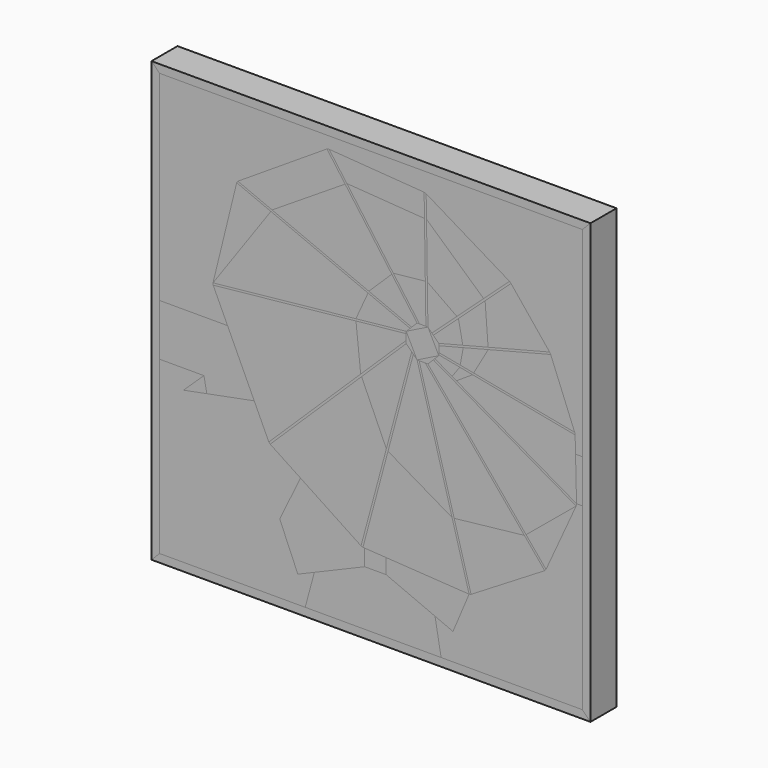
from build123d import *

# Parameters (mm, degrees)
F1_DEPTH  = 25.4
F2_DEPTH  = 25.4
F3_DEPTH  = 25.4
F4_DEPTH  = 25.4
F5_DEPTH  = 25.4
F6_DEPTH  = 25.4
F7_DEPTH  = 25.4
F8_DEPTH  = 25.4
F9_DEPTH  = 25.4
F10_DEPTH = 25.4
F11_DEPTH = 25.4
F12_DEPTH = 25.4


with BuildPart() as f1:
    # F0 (on Front) → F1 (new body)
    with BuildSketch(Plane.XZ):
        Polygon((564.167015, -561.18683), (233.967015, -561.18683), (233.967015, -717.402931), (287.011585, -717.402931), (275.812594, -693.25449), (275.676235, -691.672605), (294.164101, -616.82393), (295.080552, -615.485247), (364.641233, -570.688867), (366.352551, -570.342662), (440.574027, -575.736981), (442.169593, -576.265024), (507.270955, -615.31458), (508.431215, -616.404916), (538.58523, -653.758765), (539.433849, -655.180068), (558.16965, -702.605977), (558.518216, -704.289233), (558.829212, -717.402931), (564.167015, -717.402931), align=None)
        Polygon((233.967015, -757.794927), (233.967015, -891.38683), (347.668972, -891.38683), (354.829425, -865.002507), (341.91197, -870.468231), (327.788734, -837.089988), (343.999154, -803.727233), (320.338125, -788.100211), (319.258029, -786.936106), (307.861511, -762.361733), (270.826446, -769.483887), (252.63107, -772.98301), (268.578561, -757.794927), align=None)
        Polygon((453.829311, -891.38683), (564.167015, -891.38683), (564.167015, -751.238252), (559.631627, -751.238252), (559.34648, -752.905947), (535.794555, -804.14871), (534.751876, -805.378309), (477.250969, -840.341272), (475.707352, -840.715136), (463.118014, -870.468231), (449.078202, -864.527607), align=None)
    extrude(amount=F1_DEPTH)


with BuildPart() as f2:
    # F0 (on Front) → F2 (new body)
    with BuildSketch(Plane.XZ):
        Polygon((287.011585, -717.402931), (233.967015, -717.402931), (233.967015, -757.794927), (268.578561, -757.794927), (270.826446, -769.483887), (307.861511, -762.361733), align=None)
        Polygon((564.167015, -751.238252), (564.167015, -717.402931), (558.829212, -717.402931), (559.631627, -751.238252), align=None)
    extrude(amount=F2_DEPTH)


with BuildPart() as f3:
    # F0 (on Front) → F3 (new body)
    with BuildSketch(Plane.XZ):
        Polygon((270.826446, -769.483887), (268.578561, -757.794927), (252.63107, -772.98301), align=None)
    extrude(amount=F3_DEPTH)


with BuildPart() as f4:
    # F0 (on Front) → F4 (new body)
    with BuildSketch(Plane.XZ):
        Polygon((354.829425, -865.002507), (347.668972, -891.38683), (453.829311, -891.38683), (449.078202, -864.527607), (410.903061, -848.374674), (394.126923, -848.374674), align=None)
    extrude(amount=F4_DEPTH)


with BuildPart() as f5:
    # F0 (on Front) → F5 (new body)
    with BuildSketch(Plane.XZ):
        Polygon((341.91197, -870.468231), (354.829425, -865.002507), (394.126923, -848.374674), (394.126923, -835.56869), (392.782459, -835.483876), (391.281021, -834.95473), (343.999154, -803.727233), (327.788734, -837.089988), align=None)
        Polygon((410.903061, -848.374674), (449.078202, -864.527607), (463.118014, -870.468231), (475.707352, -840.715136), (410.903061, -836.627001), align=None)
    extrude(amount=F5_DEPTH)


with BuildPart() as f6:
    # F0 (on Front) → F6 (new body)
    with BuildSketch(Plane.XZ):
        Polygon((394.126923, -835.56869), (394.126923, -848.374674), (410.903061, -848.374674), (410.903061, -836.627001), align=None)
        Polygon((233.967015, -891.38683), (227.617015, -897.73683), (570.517015, -897.73683), (564.167015, -891.38683), (453.829311, -891.38683), (347.668972, -891.38683), align=None)
        Polygon((570.517015, -554.83683), (227.617015, -554.83683), (233.967015, -561.18683), (564.167015, -561.18683), align=None)
    extrude(amount=F6_DEPTH)


with BuildPart() as f7:
    # F0 (on Front) → F7 (new body)
    with BuildSketch(Plane.XZ):
        Polygon((233.967015, -561.18683), (227.617015, -554.83683), (227.617015, -897.73683), (233.967015, -891.38683), (233.967015, -757.794927), (233.967015, -717.402931), align=None)
        Polygon((570.517015, -897.73683), (570.517015, -554.83683), (564.167015, -561.18683), (564.167015, -717.402931), (564.167015, -751.238252), (564.167015, -891.38683), align=None)
    extrude(amount=F7_DEPTH)


with BuildPart() as f8:
    # F0 (on Front) → F8 (new body)
    with BuildSketch(Plane.XZ):
        Polygon((294.164101, -616.82393), (275.676235, -691.672605), (320.884148, -627.892405), align=None)
        Polygon((364.641233, -570.688867), (295.080552, -615.485247), (321.804151, -626.555193), (378.860652, -590.233083), align=None)
        Polygon((440.574027, -575.736981), (366.352551, -570.342662), (380.202406, -589.378923), (440.842646, -593.716114), align=None)
        Polygon((487.054365, -633.765668), (507.270955, -615.31458), (442.169593, -576.265024), (442.430323, -593.716114), align=None)
        Polygon((490.535726, -666.074681), (538.58523, -653.758765), (508.431215, -616.404916), (488.199508, -634.8698), align=None)
        Polygon((479.252744, -687.474105), (558.16965, -702.605977), (539.433849, -655.180068), (490.648531, -667.684586), align=None)
        Polygon((559.631627, -751.238252), (558.829212, -717.402931), (558.518216, -704.289233), (478.414487, -688.929793), (465.822459, -697.218282), align=None)
        Polygon((520.21211, -785.357117), (559.34648, -752.905947), (447.765817, -688.652269), (443.532484, -692.885603), align=None)
        Polygon((436.712218, -692.885603), (464.057298, -792.350608), (518.89451, -786.255176), (441.470192, -692.885603), align=None)
        Polygon((412.366012, -763.043521), (462.410898, -792.350608), (435.065817, -692.885603), (432.127009, -689.946795), align=None)
        Polygon((426.599151, -684.418936), (391.697739, -718.473029), (411.056752, -761.8035), (430.832484, -688.652269), align=None)
        Polygon((426.599151, -677.548358), (387.331791, -681.638499), (391.007635, -716.9284), (426.599151, -682.200957), align=None)
        Polygon((396.766799, -659.325928), (387.270504, -680.048795), (426.599151, -675.952269), (429.617475, -672.933945), align=None)
        Polygon((397.37434, -657.859282), (430.832484, -671.718936), (435.065817, -667.485603), (415.321617, -640.34772), align=None)
        Polygon((437.029017, -667.485603), (441.944807, -667.485603), (441.483685, -636.621964), (416.469762, -639.227449), align=None)
        Polygon((443.071363, -636.621964), (443.532484, -667.485603), (446.67009, -670.623209), (466.144402, -652.849577), align=None)
        Polygon((451.999151, -675.952269), (470.768014, -671.141486), (467.387005, -653.86476), (447.793791, -671.74691), align=None)
        Polygon((451.999151, -682.248382), (468.712859, -685.453141), (471.162176, -672.679274), (451.999151, -677.591088), align=None)
        Polygon((448.928299, -687.489787), (462.419805, -695.258865), (468.413911, -687.012239), (451.999151, -683.864801), (451.999151, -684.418936), align=None)
    extrude(amount=F8_DEPTH)


with BuildPart() as f9:
    # F0 (on Front) → F9 (new body)
    with BuildSketch(Plane.XZ):
        Polygon((535.794555, -804.14871), (559.34648, -752.905947), (520.21211, -785.357117), align=None)
        Polygon((464.057298, -792.350608), (477.250969, -840.341272), (534.751876, -805.378309), (518.89451, -786.255176), align=None)
        Polygon((392.782459, -835.483876), (394.126923, -835.56869), (410.903061, -836.627001), (475.707352, -840.715136), (462.410898, -792.350608), (412.366012, -763.043521), align=None)
        Polygon((391.697739, -718.473029), (320.338125, -788.100211), (343.999154, -803.727233), (391.281021, -834.95473), (411.056752, -761.8035), align=None)
        Polygon((275.812594, -693.25449), (287.011585, -717.402931), (307.861511, -762.361733), (319.258029, -786.936106), (391.007635, -716.9284), (387.331791, -681.638499), align=None)
        Polygon((320.884148, -627.892405), (275.676235, -691.672605), (387.270504, -680.048795), (396.766799, -659.325928), align=None)
        Polygon((378.860652, -590.233083), (321.804151, -626.555193), (397.37434, -657.859282), (415.321617, -640.34772), align=None)
        Polygon((416.469762, -639.227449), (441.483685, -636.621964), (440.842646, -593.716114), (380.202406, -589.378923), align=None)
        Polygon((442.430323, -593.716114), (443.071363, -636.621964), (466.144402, -652.849577), (487.054365, -633.765668), align=None)
        Polygon((470.768014, -671.141486), (490.535726, -666.074681), (488.199508, -634.8698), (467.387005, -653.86476), align=None)
        Polygon((468.712859, -685.453141), (479.252744, -687.474105), (490.648531, -667.684586), (471.162176, -672.679274), align=None)
        Polygon((462.419805, -695.258865), (465.822459, -697.218282), (478.414487, -688.929793), (468.413911, -687.012239), align=None)
    extrude(amount=F9_DEPTH)


with BuildPart() as f10:
    # F0 (on Front) → F10 (new body)
    with BuildSketch(Plane.XZ):
        Polygon((443.532484, -667.485603), (426.599151, -675.952269), (435.065817, -692.885603), (451.999151, -684.418936), align=None)
    extrude(amount=F10_DEPTH)


with BuildPart() as f11:
    # F0 (on Front) → F11 (new body)
    with BuildSketch(Plane.XZ):
        Polygon((429.617475, -672.933945), (426.599151, -675.952269), (443.532484, -667.485603), (441.944807, -667.485603), (437.029017, -667.485603), (435.065817, -667.485603), (430.832484, -671.718936), align=None)
        Polygon((451.999151, -684.418936), (451.999151, -683.864801), (451.999151, -682.248382), (451.999151, -677.591088), (451.999151, -675.952269), (447.793791, -671.74691), (446.67009, -670.623209), (443.532484, -667.485603), align=None)
        Polygon((443.532484, -692.885603), (447.765817, -688.652269), (448.928299, -687.489787), (451.999151, -684.418936), (435.065817, -692.885603), (436.712218, -692.885603), (441.470192, -692.885603), align=None)
        Polygon((426.599151, -675.952269), (426.599151, -677.548358), (426.599151, -682.200957), (426.599151, -684.418936), (430.832484, -688.652269), (432.127009, -689.946795), (435.065817, -692.885603), align=None)
    extrude(amount=F11_DEPTH)


with BuildPart() as f12:
    # F0 (on Front) → F12 (new body)
    with BuildSketch(Plane.XZ):
        Polygon((295.080552, -615.485247), (294.164101, -616.82393), (320.884148, -627.892405), (396.766799, -659.325928), (429.617475, -672.933945), (430.832484, -671.718936), (397.37434, -657.859282), (321.804151, -626.555193), align=None)
        Polygon((366.352551, -570.342662), (364.641233, -570.688867), (378.860652, -590.233083), (415.321617, -640.34772), (435.065817, -667.485603), (437.029017, -667.485603), (416.469762, -639.227449), (380.202406, -589.378923), align=None)
        Polygon((441.944807, -667.485603), (443.532484, -667.485603), (443.071363, -636.621964), (442.430323, -593.716114), (442.169593, -576.265024), (440.574027, -575.736981), (440.842646, -593.716114), (441.483685, -636.621964), align=None)
        Polygon((488.199508, -634.8698), (508.431215, -616.404916), (507.270955, -615.31458), (487.054365, -633.765668), (466.144402, -652.849577), (446.67009, -670.623209), (447.793791, -671.74691), (467.387005, -653.86476), align=None)
        Polygon((490.648531, -667.684586), (539.433849, -655.180068), (538.58523, -653.758765), (490.535726, -666.074681), (470.768014, -671.141486), (451.999151, -675.952269), (451.999151, -677.591088), (471.162176, -672.679274), align=None)
        Polygon((275.676235, -691.672605), (275.812594, -693.25449), (387.331791, -681.638499), (426.599151, -677.548358), (426.599151, -675.952269), (387.270504, -680.048795), align=None)
        Polygon((391.007635, -716.9284), (319.258029, -786.936106), (320.338125, -788.100211), (391.697739, -718.473029), (426.599151, -684.418936), (426.599151, -682.200957), align=None)
        Polygon((391.281021, -834.95473), (392.782459, -835.483876), (412.366012, -763.043521), (432.127009, -689.946795), (430.832484, -688.652269), (411.056752, -761.8035), align=None)
        Polygon((462.410898, -792.350608), (475.707352, -840.715136), (477.250969, -840.341272), (464.057298, -792.350608), (436.712218, -692.885603), (435.065817, -692.885603), align=None)
        Polygon((534.751876, -805.378309), (535.794555, -804.14871), (520.21211, -785.357117), (443.532484, -692.885603), (441.470192, -692.885603), (518.89451, -786.255176), align=None)
        Polygon((559.34648, -752.905947), (559.631627, -751.238252), (465.822459, -697.218282), (462.419805, -695.258865), (448.928299, -687.489787), (447.765817, -688.652269), align=None)
        Polygon((478.414487, -688.929793), (558.518216, -704.289233), (558.16965, -702.605977), (479.252744, -687.474105), (468.712859, -685.453141), (451.999151, -682.248382), (451.999151, -683.864801), (468.413911, -687.012239), align=None)
    extrude(amount=F12_DEPTH)


solid = Compound([f1.part, f2.part, f3.part, f4.part, f5.part, f6.part, f7.part, f8.part, f9.part, f10.part, f11.part, f12.part])
